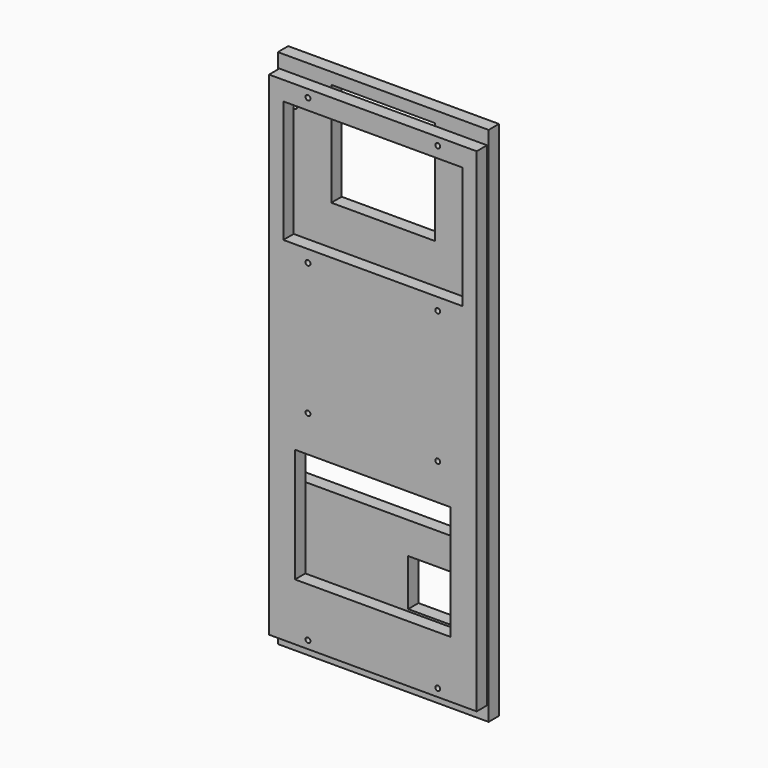
from build123d import *

# Parameters (mm, degrees)
F0_W     = 406
F0_H     = 1004
F0_R     = 4
F0_W_2   = 90
F0_H_2   = 90
F0_W_3   = 360
F0_H_3   = 150
F0_W_4   = 200
F0_H_4   = 200
F1_DEPTH = 25
F2_W     = 400
F2_H     = 950
F2_R     = 4.75
F2_W_2   = 300
F2_H_2   = 220
F2_W_3   = 345
F2_H_3   = 235
F3_DEPTH = 25


with BuildPart() as f1:
    # F0 (on Front) → F1 (new body)
    with BuildSketch(Plane.XZ):
        Rectangle(F0_W, F0_H)
        with Locations((-170, -300)):
            Circle(F0_R, mode=Mode.SUBTRACT)
        with Locations((93, -316)):
            Rectangle(F0_W_2, F0_H_2, mode=Mode.SUBTRACT)
        with Locations((170, -300)):
            Circle(F0_R, mode=Mode.SUBTRACT)
        with Locations((0, -135)):
            Rectangle(F0_W_3, F0_H_3, mode=Mode.SUBTRACT)
        with Locations((-170, 420)):
            Circle(F0_R, mode=Mode.SUBTRACT)
        with Locations((0, 380)):
            Rectangle(F0_W_4, F0_H_4, mode=Mode.SUBTRACT)
        with Locations((170, 420)):
            Circle(F0_R, mode=Mode.SUBTRACT)
    extrude(amount=-F1_DEPTH)


with BuildPart() as f3:
    # F2 (on Front) → F3 (new body)
    with BuildSketch(Plane.XZ):
        Rectangle(F2_W, F2_H)
        with Locations((-125, -460)):
            Circle(F2_R, mode=Mode.SUBTRACT)
        with Locations((-125, -75)):
            Circle(F2_R, mode=Mode.SUBTRACT)
        with Locations((0, -255)):
            Rectangle(F2_W_2, F2_H_2, mode=Mode.SUBTRACT)
        with Locations((125, -460)):
            Circle(F2_R, mode=Mode.SUBTRACT)
        with Locations((125, -75)):
            Circle(F2_R, mode=Mode.SUBTRACT)
        with Locations((-125, 180)):
            Circle(F2_R, mode=Mode.SUBTRACT)
        with Locations((-125, 460)):
            Circle(F2_R, mode=Mode.SUBTRACT)
        with Locations((125, 180)):
            Circle(F2_R, mode=Mode.SUBTRACT)
        with Locations((0, 321)):
            Rectangle(F2_W_3, F2_H_3, mode=Mode.SUBTRACT)
        with Locations((125, 460)):
            Circle(F2_R, mode=Mode.SUBTRACT)
    extrude(amount=F3_DEPTH)


solid = Compound([f1.part, f3.part])
